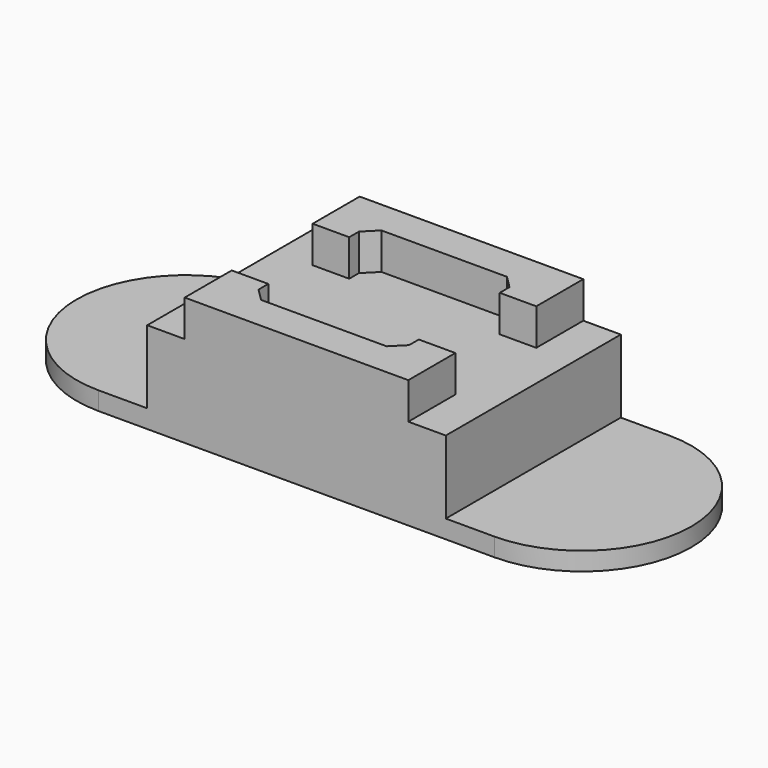
from build123d import *

# Parameters (mm, degrees)
F1_DEPTH = 1.5
F3_DEPTH = 6
F5_DEPTH = 3


with BuildPart() as f1:
    # F0 (on Top) → F1 (new body)
    with BuildSketch(Plane.XY):
        Polygon((16.25, 0), (0, 0), (-16.25, 0), (-16.25, -8.975), (16.25, -8.975), align=None)
        Polygon((-16.25, 0), (0, 0), (16.25, 0), (16.25, 8.975), (-16.25, 8.975), align=None)
        with BuildLine():
            Line((-16.25, -8.975), (-16.25, 0))
            Line((-16.25, 0), (-16.25, 8.975))
            ThreePointArc((-16.25, 8.975), (-25.225, 0), (-16.25, -8.975))
        make_face()
        with BuildLine():
            Line((16.25, 8.975), (16.25, 0))
            Line((16.25, 0), (16.25, -8.975))
            ThreePointArc((16.25, -8.975), (25.225, 0), (16.25, 8.975))
        make_face()
    extrude(amount=F1_DEPTH)

    # F2 (on face) → F3 (join)
    with BuildSketch(Plane.XY.offset(1.5)):
        Polygon((0, 8.975), (0, -0.99409), (0, -8.975), (12.25, -8.975), (12.25, 8.975), align=None)
        Polygon((0, -8.975), (0, -0.99409), (0, 8.975), (-12.25, 8.975), (-12.25, -8.975), align=None)
    extrude(amount=F3_DEPTH)

    # F4 (on face) → F5 (join)
    with BuildSketch(Plane.XY.offset(7.5)):
        Polygon((5.15, -6.175), (0, -6.175), (-5.15, -6.175), (-6.175, -5.15), (-6.175, -4.15), (-9.175, -4.15), (-9.175, -8.975), (9.175, -8.975), (9.175, -4.15), (6.175, -4.15), (6.175, -5.15), align=None)
        Polygon((-5.15, 6.175), (0, 6.175), (5.15, 6.175), (6.175, 5.15), (6.175, 4.15), (9.175, 4.15), (9.175, 8.975), (-9.175, 8.975), (-9.175, 4.15), (-6.175, 4.15), (-6.175, 5.15), align=None)
    extrude(amount=F5_DEPTH)


solid = f1.part
